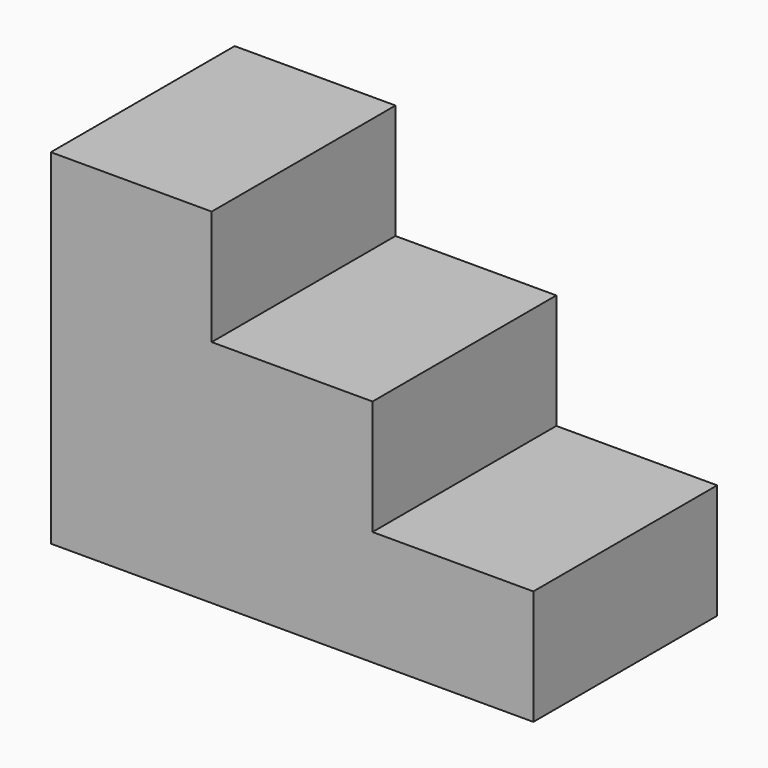
from build123d import *

# Parameters (mm, degrees)
F0_W     = 2667
F0_H     = 1270
F1_DEPTH = 1905
F3_DEPTH = 1270.001


with BuildPart() as f1:
    # F0 (on Top) → F1 (new body)
    with BuildSketch(Plane.XY):
        Rectangle(F0_W, F0_H)
    extrude(amount=F1_DEPTH)

    # F2 (on face) → F3 (cut, through all)
    with BuildSketch(Plane(origin=(0, 635, 0), x_dir=(-1, 0, 0), z_dir=(0, 1, 0))):
        Polygon((-1333.5, 1905), (-1333.5, 635), (-444.5, 635), (-444.5, 1270), (444.5, 1270), (444.5, 1905), align=None)
    extrude(amount=-F3_DEPTH, mode=Mode.SUBTRACT)


solid = f1.part
